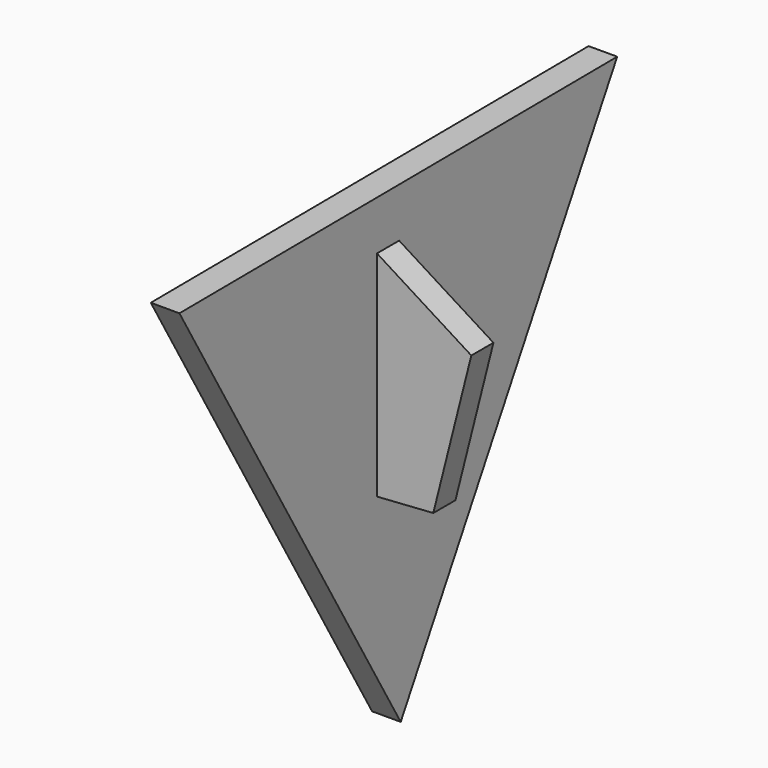
from build123d import *

# Parameters (mm, degrees)
F2_DEPTH = 14.986
F3_DEPTH = 14.478


with BuildPart() as f2:
    # F1 (on Right) → F2 (new body)
    with BuildSketch(Plane.YZ):
        Polygon((-143.724723, 81.765599), (1.051276, -165.352061), (142.673448, 83.586462), align=None)
    extrude(amount=F2_DEPTH)

    # F0 (on Front) → F3 (join)
    with BuildSketch(Plane.XZ):
        Polygon((44.456244, -53.21716), (64.350262, 25.835394), (-4.685595, 69.184312), (-67.246119, 16.922862), (-36.874792, -58.725407), align=None)
    extrude(amount=F3_DEPTH)


solid = f2.part
